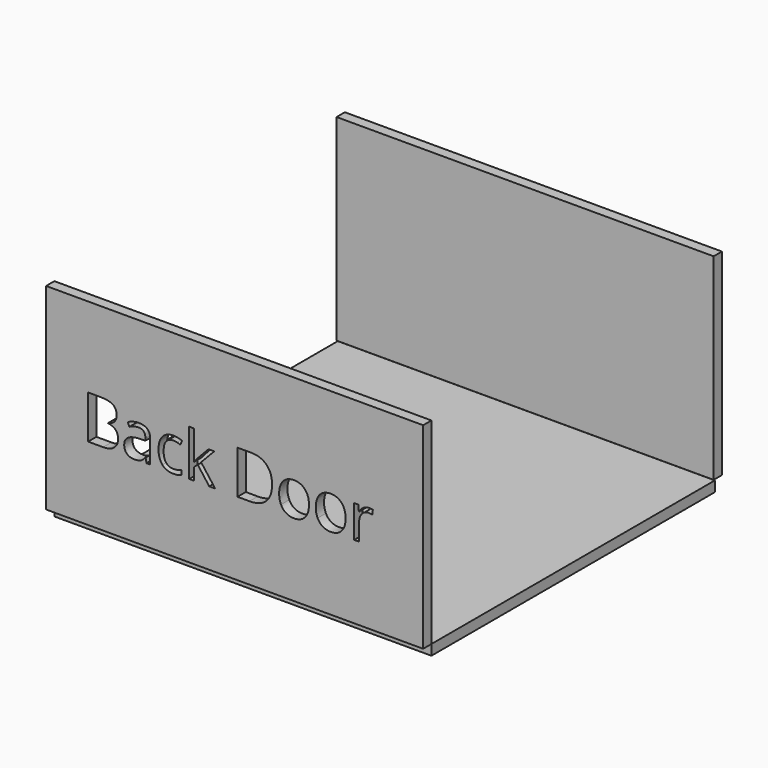
from build123d import *

# Parameters (mm, degrees)
F0_W     = 1820
F0_H     = 1710
F1_DEPTH = 50
F2_W     = 1820
F2_H     = 950
F3_DEPTH = 50
F4_W     = 1820
F4_H     = 950
F5_DEPTH = 50


with BuildPart() as f1:
    # F0 (on Top) → F1 (new body)
    with BuildSketch(Plane.XY):
        Rectangle(F0_W, F0_H)
    extrude(amount=F1_DEPTH)


with BuildPart() as f3:
    # F2 (on face) → F3 (new body)
    with BuildSketch(Plane(origin=(0, 855, 0), x_dir=(-1, 0, 0), z_dir=(0, 1, 0))):
        with Locations((5.786948204, 525.4480183125)):
            Rectangle(F2_W, F2_H)
    extrude(amount=F3_DEPTH)


with BuildPart() as f5:
    # F4 (on face) → F5 (new body)
    with BuildSketch(Plane.XZ.offset(855)):
        with Locations((0, 525)):
            Rectangle(F4_W, F4_H)
        with BuildLine():
            Line((-407.3147230471, 404.433965683), (-424.9179973008, 404.433965683))
            Line((-424.9179973008, 404.433965683), (-429.6274446986, 426.7466873344))
            Line((-429.6274446986, 426.7466873344), (-430.7705144553, 426.7466873344))
            add(Edge.make_bspline(
                [(-430.7705144553, 426.7466873344), (-442.4755487643, 412.0239488677), (-454.1119988878, 406.7886893819)],
                knots=[0, 0, 0, 1, 1, 1], degree=2))
            add(Edge.make_bspline(
                [(-454.1119988878, 406.7886893819), (-465.7484490114, 401.553429896), (-483.2145548943, 401.553429896)],
                knots=[0, 0, 0, 1, 1, 1], degree=2))
            add(Edge.make_bspline(
                [(-483.2145548943, 401.553429896), (-506.4874551414, 401.553429896), (-519.7013415293, 413.5785237369)],
                knots=[0, 0, 0, 1, 1, 1], degree=2))
            add(Edge.make_bspline(
                [(-519.7013415293, 413.5785237369), (-532.9152279171, 425.6036175777), (-532.9152279171, 447.7334480681)],
                knots=[0, 0, 0, 1, 1, 1], degree=2))
            add(Edge.make_bspline(
                [(-532.9152279171, 447.7334480681), (-532.9152279171, 495.1479815774), (-457.0611188602, 497.4341210909)],
                knots=[0, 0, 0, 1, 1, 1], degree=2))
            Line((-457.0611188602, 497.4341210909), (-430.4961777137, 498.302854106))
            Line((-430.4961777137, 498.302854106), (-430.4961777137, 508.0418084334))
            add(Edge.make_bspline(
                [(-430.4961777137, 508.0418084334), (-430.4961777137, 526.468092912), (-438.4062204303, 535.2468686437)],
                knots=[0, 0, 0, 1, 1, 1], degree=2))
            add(Edge.make_bspline(
                [(-438.4062204303, 535.2468686437), (-446.3162631469, 544.0256443754), (-463.7823690298, 544.0256443754)],
                knots=[0, 0, 0, 1, 1, 1], degree=2))
            add(Edge.make_bspline(
                [(-463.7823690298, 544.0256443754), (-483.3517232651, 544.0256443754), (-508.0420300106, 532.0462733248)],
                knots=[0, 0, 0, 1, 1, 1], degree=2))
            Line((-508.0420300106, 532.0462733248), (-515.3576764537, 550.1982210618))
            add(Edge.make_bspline(
                [(-515.3576764537, 550.1982210618), (-503.7898105155, 556.4622433287), (-490.0043892493, 560.0286209697)],
                knots=[0, 0, 0, 1, 1, 1], degree=2))
            add(Edge.make_bspline(
                [(-490.0043892493, 560.0286209697), (-476.2189679831, 563.5949986107), (-462.3192397412, 563.5949986107)],
                knots=[0, 0, 0, 1, 1, 1], degree=2))
            add(Edge.make_bspline(
                [(-462.3192397412, 563.5949986107), (-434.3368920963, 563.5949986107), (-420.8258075717, 551.1812610526)],
                knots=[0, 0, 0, 1, 1, 1], degree=2))
            add(Edge.make_bspline(
                [(-420.8258075717, 551.1812610526), (-407.3147230471, 538.7675234944), (-407.3147230471, 511.3338493328)],
                knots=[0, 0, 0, 1, 1, 1], degree=2))
            Line((-407.3147230471, 511.3338493328), (-407.3147230471, 404.433965683))
        make_face(mode=Mode.SUBTRACT)
        with BuildLine():
            add(Edge.make_bspline(
                [(-256.3380695776, 409.7378093542), (-272.02098664, 401.553429896), (-295.8882831606, 401.553429896)],
                knots=[0, 0, 0, 1, 1, 1], degree=2))
            add(Edge.make_bspline(
                [(-295.8882831606, 401.553429896), (-329.906039121, 401.553429896), (-348.560937551, 422.4944678394)],
                knots=[0, 0, 0, 1, 1, 1], degree=2))
            add(Edge.make_bspline(
                [(-348.560937551, 422.4944678394), (-367.2158359809, 443.4355057828), (-367.2158359809, 481.7512040285)],
                knots=[0, 0, 0, 1, 1, 1], degree=2))
            add(Edge.make_bspline(
                [(-367.2158359809, 481.7512040285), (-367.2158359809, 521.0270808699), (-348.2637394142, 542.4710695063)],
                knots=[0, 0, 0, 1, 1, 1], degree=2))
            add(Edge.make_bspline(
                [(-348.2637394142, 542.4710695063), (-329.3116428475, 563.9150581426), (-294.3337082915, 563.9150581426)],
                knots=[0, 0, 0, 1, 1, 1], degree=2))
            add(Edge.make_bspline(
                [(-294.3337082915, 563.9150581426), (-283.0401790949, 563.9150581426), (-271.7466498984, 561.4688888632)],
                knots=[0, 0, 0, 1, 1, 1], degree=2))
            add(Edge.make_bspline(
                [(-271.7466498984, 561.4688888632), (-260.4531207018, 559.0227195838), (-254.0519300641, 555.7306786844)],
                knots=[0, 0, 0, 1, 1, 1], degree=2))
            Line((-254.0519300641, 555.7306786844), (-261.321853717, 535.6126509659))
            add(Edge.make_bspline(
                [(-261.321853717, 535.6126509659), (-269.1861736433, 538.7675234944), (-278.467900068, 540.8250490566)],
                knots=[0, 0, 0, 1, 1, 1], degree=2))
            add(Edge.make_bspline(
                [(-278.467900068, 540.8250490566), (-287.7496264927, 542.8825746187), (-294.8823817747, 542.8825746187)],
                knots=[0, 0, 0, 1, 1, 1], degree=2))
            add(Edge.make_bspline(
                [(-294.8823817747, 542.8825746187), (-342.6169748159, 542.8825746187), (-342.6169748159, 482.0255407701)],
                knots=[0, 0, 0, 1, 1, 1], degree=2))
            add(Edge.make_bspline(
                [(-342.6169748159, 482.0255407701), (-342.6169748159, 453.1744601102), (-330.9805246924, 437.7430183942)],
                knots=[0, 0, 0, 1, 1, 1], degree=2))
            add(Edge.make_bspline(
                [(-330.9805246924, 437.7430183942), (-319.3440745688, 422.3115766783), (-296.4826794341, 422.3115766783)],
                knots=[0, 0, 0, 1, 1, 1], degree=2))
            add(Edge.make_bspline(
                [(-296.4826794341, 422.3115766783), (-276.9133251988, 422.3115766783), (-256.3380695776, 430.7245700879)],
                knots=[0, 0, 0, 1, 1, 1], degree=2))
            Line((-256.3380695776, 430.7245700879), (-256.3380695776, 409.7378093542))
        make_face(mode=Mode.SUBTRACT)
        with BuildLine():
            add(Edge.make_bspline(
                [(339.5899173985, 542.0367029987), (358.9535190776, 520.1583478548), (358.9535190776, 482.8942737853)],
                knots=[0, 0, 0, 1, 1, 1], degree=2))
            add(Edge.make_bspline(
                [(358.9535190776, 482.8942737853), (358.9535190776, 444.5785755395), (339.681362979, 423.0660027178)],
                knots=[0, 0, 0, 1, 1, 1], degree=2))
            add(Edge.make_bspline(
                [(339.681362979, 423.0660027178), (320.4092068805, 401.553429896), (286.39145092, 401.553429896)],
                knots=[0, 0, 0, 1, 1, 1], degree=2))
            add(Edge.make_bspline(
                [(286.39145092, 401.553429896), (265.3589673961, 401.553429896), (249.0816540602, 411.4295525942)],
                knots=[0, 0, 0, 1, 1, 1], degree=2))
            add(Edge.make_bspline(
                [(249.0816540602, 411.4295525942), (232.8043407243, 421.3056752924), (223.9341194121, 439.731959771)],
                knots=[0, 0, 0, 1, 1, 1], degree=2))
            add(Edge.make_bspline(
                [(223.9341194121, 439.731959771), (215.0638980998, 458.1582442495), (215.0638980998, 482.8942737853)],
                knots=[0, 0, 0, 1, 1, 1], degree=2))
            add(Edge.make_bspline(
                [(215.0638980998, 482.8942737853), (215.0638980998, 521.1642492407), (234.2217472227, 542.5396536917)],
                knots=[0, 0, 0, 1, 1, 1], degree=2))
            add(Edge.make_bspline(
                [(234.2217472227, 542.5396536917), (253.3795963455, 563.9150581426), (287.397352306, 563.9150581426)],
                knots=[0, 0, 0, 1, 1, 1], degree=2))
            add(Edge.make_bspline(
                [(287.397352306, 563.9150581426), (320.2263157194, 563.9150581426), (339.5899173985, 542.0367029987)],
                knots=[0, 0, 0, 1, 1, 1], degree=2))
        make_face(mode=Mode.SUBTRACT)
        with BuildLine():
            add(Edge.make_bspline(
                [(516.3542245799, 542.0367029987), (535.717826259, 520.1583478548), (535.717826259, 482.8942737853)],
                knots=[0, 0, 0, 1, 1, 1], degree=2))
            add(Edge.make_bspline(
                [(535.717826259, 482.8942737853), (535.717826259, 444.5785755395), (516.4456701605, 423.0660027178)],
                knots=[0, 0, 0, 1, 1, 1], degree=2))
            add(Edge.make_bspline(
                [(516.4456701605, 423.0660027178), (497.1735140619, 401.553429896), (463.1557581015, 401.553429896)],
                knots=[0, 0, 0, 1, 1, 1], degree=2))
            add(Edge.make_bspline(
                [(463.1557581015, 401.553429896), (442.1232745776, 401.553429896), (425.8459612417, 411.4295525942)],
                knots=[0, 0, 0, 1, 1, 1], degree=2))
            add(Edge.make_bspline(
                [(425.8459612417, 411.4295525942), (409.5686479058, 421.3056752924), (400.6984265935, 439.731959771)],
                knots=[0, 0, 0, 1, 1, 1], degree=2))
            add(Edge.make_bspline(
                [(400.6984265935, 439.731959771), (391.8282052812, 458.1582442495), (391.8282052812, 482.8942737853)],
                knots=[0, 0, 0, 1, 1, 1], degree=2))
            add(Edge.make_bspline(
                [(391.8282052812, 482.8942737853), (391.8282052812, 521.1642492407), (410.9860544041, 542.5396536917)],
                knots=[0, 0, 0, 1, 1, 1], degree=2))
            add(Edge.make_bspline(
                [(410.9860544041, 542.5396536917), (430.143903527, 563.9150581426), (464.1616594874, 563.9150581426)],
                knots=[0, 0, 0, 1, 1, 1], degree=2))
            add(Edge.make_bspline(
                [(464.1616594874, 563.9150581426), (496.9906229008, 563.9150581426), (516.3542245799, 542.0367029987)],
                knots=[0, 0, 0, 1, 1, 1], degree=2))
        make_face(mode=Mode.SUBTRACT)
        with BuildLine():
            add(Edge.make_bspline(
                [(621.768117546, 555.6163717087), (634.0675481285, 563.9150581426), (648.7902865952, 563.9150581426)],
                knots=[0, 0, 0, 1, 1, 1], degree=2))
            add(Edge.make_bspline(
                [(648.7902865952, 563.9150581426), (659.2150827766, 563.9150581426), (667.4909078154, 562.1775921124)],
                knots=[0, 0, 0, 1, 1, 1], degree=2))
            Line((667.4909078154, 562.1775921124), (664.198866916, 540.1849299928))
            add(Edge.make_bspline(
                [(664.198866916, 540.1849299928), (654.5056353789, 542.3339011355), (647.052820565, 542.3339011355)],
                knots=[0, 0, 0, 1, 1, 1], degree=2))
            add(Edge.make_bspline(
                [(647.052820565, 542.3339011355), (628.0321398129, 542.3339011355), (614.5439166834, 526.9024594195)],
                knots=[0, 0, 0, 1, 1, 1], degree=2))
            add(Edge.make_bspline(
                [(614.5439166834, 526.9024594195), (601.055693554, 511.4710177036), (601.055693554, 488.4724541981)],
                knots=[0, 0, 0, 1, 1, 1], degree=2))
            Line((601.055693554, 488.4724541981), (601.055693554, 404.433965683))
            Line((601.055693554, 404.433965683), (577.3255654042, 404.433965683))
            Line((577.3255654042, 404.433965683), (577.3255654042, 561.0345223556))
            Line((577.3255654042, 561.0345223556), (596.8949196395, 561.0345223556))
            Line((596.8949196395, 561.0345223556), (599.6382870556, 532.0462733248))
            Line((599.6382870556, 532.0462733248), (600.7813568124, 532.0462733248))
            add(Edge.make_bspline(
                [(600.7813568124, 532.0462733248), (609.4686869635, 547.3176852748), (621.768117546, 555.6163717087)],
                knots=[0, 0, 0, 1, 1, 1], degree=2))
        make_face(mode=Mode.SUBTRACT)
        with BuildLine():
            Line((-707.2562272143, 404.433965683), (-707.2562272143, 613.3413944238))
            Line((-707.2562272143, 613.3413944238), (-648.2281049765, 613.3413944238))
            add(Edge.make_bspline(
                [(-648.2281049765, 613.3413944238), (-606.6660886216, 613.3413944238), (-588.0797743771, 600.9047954705)],
                knots=[0, 0, 0, 1, 1, 1], degree=2))
            add(Edge.make_bspline(
                [(-588.0797743771, 600.9047954705), (-569.4934601326, 588.4681965173), (-569.4934601326, 561.6289186291)],
                knots=[0, 0, 0, 1, 1, 1], degree=2))
            add(Edge.make_bspline(
                [(-569.4934601326, 561.6289186291), (-569.4934601326, 543.0197429895), (-579.8496721287, 530.9489263584)],
                knots=[0, 0, 0, 1, 1, 1], degree=2))
            add(Edge.make_bspline(
                [(-579.8496721287, 530.9489263584), (-590.2058841247, 518.8781097273), (-610.0952978919, 515.3117320862)],
                knots=[0, 0, 0, 1, 1, 1], degree=2))
            Line((-610.0952978919, 515.3117320862), (-610.0952978919, 513.8943255879))
            add(Edge.make_bspline(
                [(-610.0952978919, 513.8943255879), (-562.4978732214, 505.7556689199), (-562.4978732214, 463.8735930332)],
                knots=[0, 0, 0, 1, 1, 1], degree=2))
            add(Edge.make_bspline(
                [(-562.4978732214, 463.8735930332), (-562.4978732214, 435.8912453883), (-581.4271083929, 420.1626055357)],
                knots=[0, 0, 0, 1, 1, 1], degree=2))
            add(Edge.make_bspline(
                [(-581.4271083929, 420.1626055357), (-600.3563435645, 404.433965683), (-634.3740995249, 404.433965683)],
                knots=[0, 0, 0, 1, 1, 1], degree=2))
            Line((-634.3740995249, 404.433965683), (-707.2562272143, 404.433965683))
        make_face(mode=Mode.SUBTRACT)
        with BuildLine():
            Line((-196.8527194371, 484.5860170252), (-195.7096496804, 484.5860170252))
            add(Edge.make_bspline(
                [(-195.7096496804, 484.5860170252), (-189.5827957843, 493.3190699667), (-177.0090284602, 507.4474121599)],
                knots=[0, 0, 0, 1, 1, 1], degree=2))
            Line((-177.0090284602, 507.4474121599), (-126.4396224223, 561.0345223556))
            Line((-126.4396224223, 561.0345223556), (-98.2743836163, 561.0345223556))
            Line((-98.2743836163, 561.0345223556), (-161.7376165102, 494.3249713526))
            Line((-161.7376165102, 494.3249713526), (-93.8392729602, 404.433965683))
            Line((-93.8392729602, 404.433965683), (-122.5531852494, 404.433965683))
            Line((-122.5531852494, 404.433965683), (-177.8777614753, 478.4591631291))
            Line((-177.8777614753, 478.4591631291), (-195.7096496804, 463.0048600181))
            Line((-195.7096496804, 463.0048600181), (-195.7096496804, 404.433965683))
            Line((-195.7096496804, 404.433965683), (-219.1654410886, 404.433965683))
            Line((-219.1654410886, 404.433965683), (-219.1654410886, 626.783894763))
            Line((-219.1654410886, 626.783894763), (-195.7096496804, 626.783894763))
            Line((-195.7096496804, 626.783894763), (-195.7096496804, 508.8648186583))
            add(Edge.make_bspline(
                [(-195.7096496804, 508.8648186583), (-195.7096496804, 501.0462215222), (-196.8527194371, 484.5860170252)],
                knots=[0, 0, 0, 1, 1, 1], degree=2))
        make_face(mode=Mode.SUBTRACT)
        with BuildLine():
            add(Edge.make_bspline(
                [(153.7724977437, 586.3420867697), (180.7718053978, 559.3427791157), (180.7718053978, 510.8766214301)],
                knots=[0, 0, 0, 1, 1, 1], degree=2))
            add(Edge.make_bspline(
                [(180.7718053978, 510.8766214301), (180.7718053978, 459.1641456354), (152.6980121723, 431.7990556592)],
                knots=[0, 0, 0, 1, 1, 1], degree=2))
            add(Edge.make_bspline(
                [(152.6980121723, 431.7990556592), (124.6242189469, 404.433965683), (71.9058417663, 404.433965683)],
                knots=[0, 0, 0, 1, 1, 1], degree=2))
            Line((71.9058417663, 404.433965683), (14.0207892853, 404.433965683))
            Line((14.0207892853, 404.433965683), (14.0207892853, 613.3413944238))
            Line((14.0207892853, 613.3413944238), (78.0326956624, 613.3413944238))
            add(Edge.make_bspline(
                [(78.0326956624, 613.3413944238), (126.7731900896, 613.3413944238), (153.7724977437, 586.3420867697)],
                knots=[0, 0, 0, 1, 1, 1], degree=2))
        make_face(mode=Mode.SUBTRACT)
    extrude(amount=F5_DEPTH)


solid = Compound([f1.part, f3.part, f5.part])
